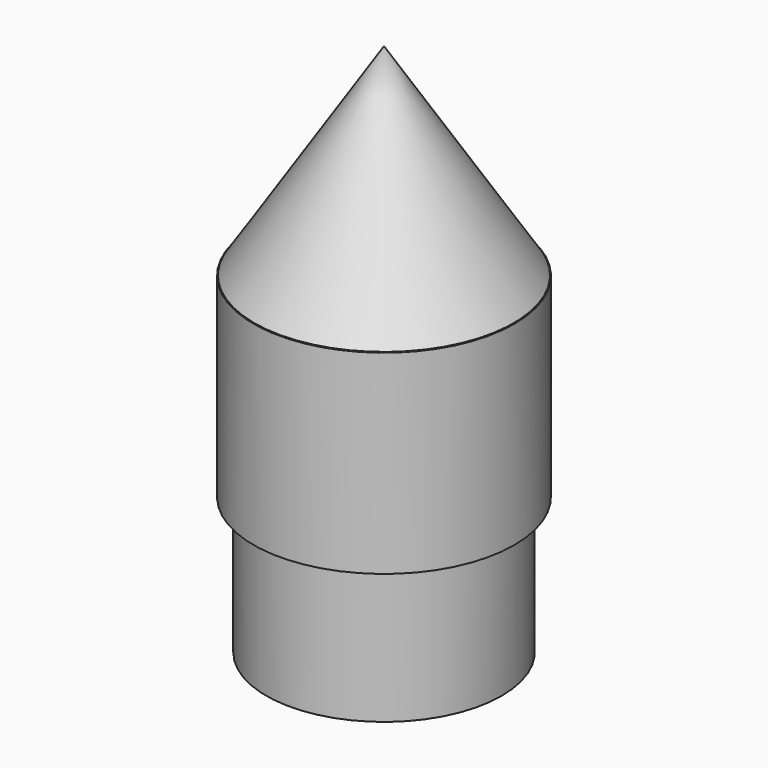
from build123d import *

# Parameters (mm, degrees)
F0_R     = 21.435
F1_DEPTH = 32
F3_D     = 38.7
F7_R     = 19.35
F7_R_2   = 17.306125
F8_DEPTH = 22.5


with BuildPart() as f1:
    # F0 (on Top) → F1 (new body)
    with BuildSketch(Plane.XY):
        Circle(F0_R)
    extrude(amount=F1_DEPTH)

    # F3 (through all)
    with Locations(Plane(origin=(0, 0, 0), x_dir=(1, 0, 0), z_dir=(0, 0, -1))):
        with Locations((0, 0)):
            Hole(F3_D / 2)


with BuildPart() as f6:
    # F5 (on Right) → F6 (revolve)
    with BuildSketch(Plane.YZ):
        Polygon((0, 32.069813), (0, 32.339215), (0, 65.22245), (-21.320432, 32.069813), align=None)
    revolve(axis=Axis((0, 0, 16.295785), (0, 0, 1)))


with BuildPart() as f8:
    # F7 (on Top) → F8 (new body)
    with BuildSketch(Plane.XY):
        Circle(F7_R)
        Circle(F7_R_2, mode=Mode.SUBTRACT)
    extrude(amount=-F8_DEPTH)


solid = Compound([f1.part, f6.part, f8.part])
